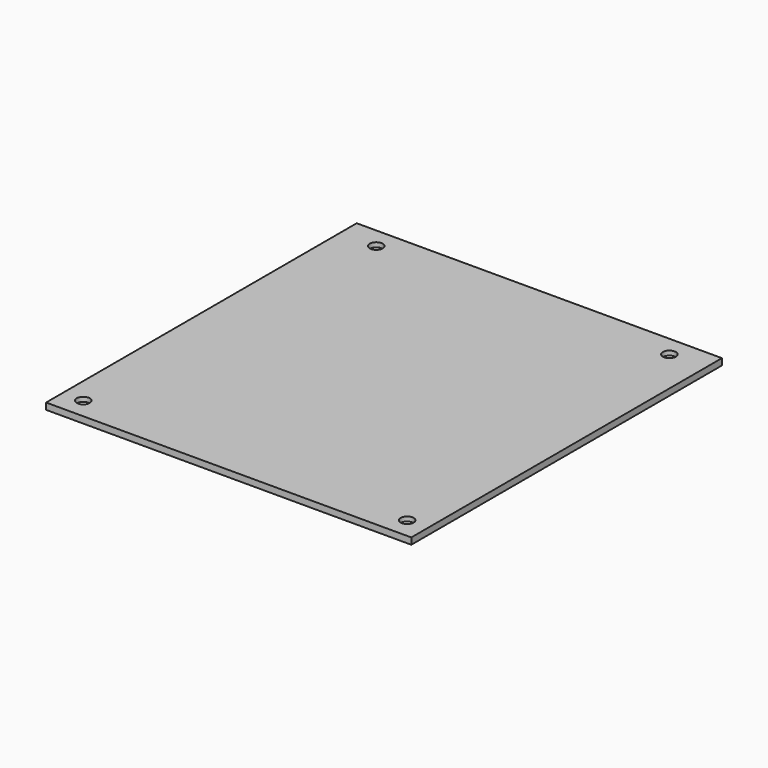
from build123d import *

# Parameters (mm, degrees)
F0_W           = 90.2
F0_H           = 95.9
F1_DEPTH       = 1.6
F2_D           = 3.2
F2_CBORE_D     = 6.4
F2_CBORE_DEPTH = 0.5
F3_D           = 3.2
F3_CBORE_D     = 6.4
F3_CBORE_DEPTH = 0.5
F4_D           = 3.2
F4_CBORE_D     = 6.4
F4_CBORE_DEPTH = 0.5
F5_D           = 3.2
F5_CBORE_D     = 6.4
F5_CBORE_DEPTH = 0.5


with BuildPart() as f1:
    # F0 (on Top) → F1 (new body)
    with BuildSketch(Plane.XY):
        Rectangle(F0_W, F0_H)
    extrude(amount=F1_DEPTH)

    # F2 (through all)
    with Locations(Plane(origin=(0, 0, 0), x_dir=(1, 0, 0), z_dir=(0, 0, -1))):
        with Locations((-36.2, -42.85)):
            CounterBoreHole(F2_D / 2, F2_CBORE_D / 2, F2_CBORE_DEPTH)

    # F3 (through all)
    with Locations(Plane(origin=(0, 0, 0), x_dir=(1, 0, 0), z_dir=(0, 0, -1))):
        with Locations((-40, 42.85)):
            CounterBoreHole(F3_D / 2, F3_CBORE_D / 2, F3_CBORE_DEPTH)

    # F4 (through all)
    with Locations(Plane(origin=(0, 0, 0), x_dir=(1, 0, 0), z_dir=(0, 0, -1))):
        with Locations((36.2, -42.85)):
            CounterBoreHole(F4_D / 2, F4_CBORE_D / 2, F4_CBORE_DEPTH)

    # F5 (through all)
    with Locations(Plane(origin=(0, 0, 0), x_dir=(1, 0, 0), z_dir=(0, 0, -1))):
        with Locations((40, 42.85)):
            CounterBoreHole(F5_D / 2, F5_CBORE_D / 2, F5_CBORE_DEPTH)


solid = f1.part
